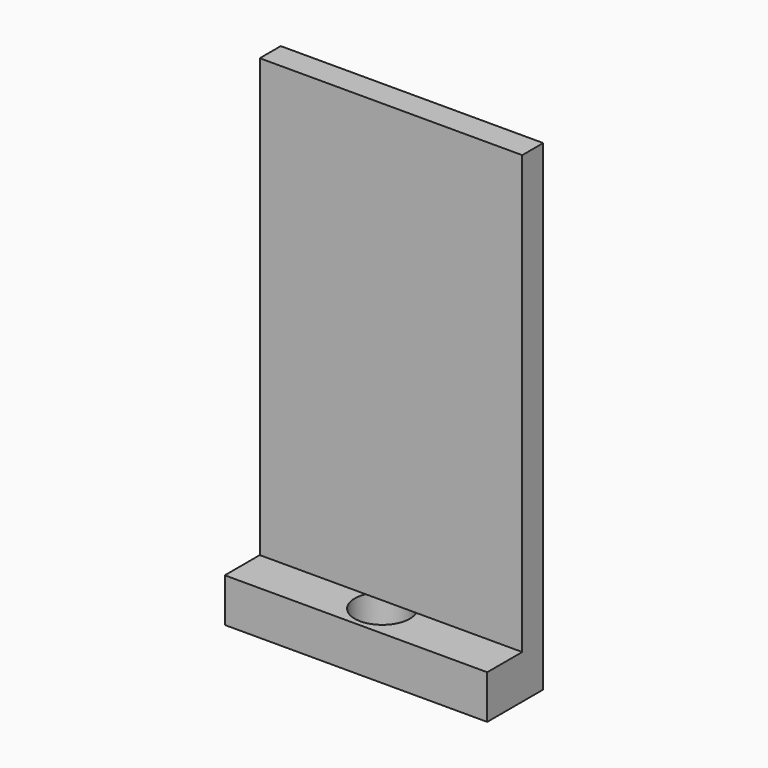
from build123d import *

# Parameters (mm, degrees)
F0_W     = 76.2
F0_H     = 139.7
F1_DEPTH = 7.62
F2_W     = 76.2
F2_H     = 12.7
F3_DEPTH = 12.7
F4_R     = 7.988777
F5_DEPTH = 12.7


with BuildPart() as f1:
    # F0 (on Front) → F1 (new body)
    with BuildSketch(Plane.XZ):
        Rectangle(F0_W, F0_H)
    extrude(amount=F1_DEPTH)

    # F2 (on face) → F3 (join)
    with BuildSketch(Plane.XZ.offset(7.62)):
        with Locations((0, -63.5)):
            Rectangle(F2_W, F2_H)
    extrude(amount=F3_DEPTH)

    # F4 (on face) → F5 (cut)
    with BuildSketch(Plane(origin=(0, 0, -69.85), x_dir=(1, 0, 0), z_dir=(0, 0, -1))):
        with Locations((0, 10.788938)):
            Circle(F4_R)
    extrude(amount=-F5_DEPTH, mode=Mode.SUBTRACT)


solid = f1.part
